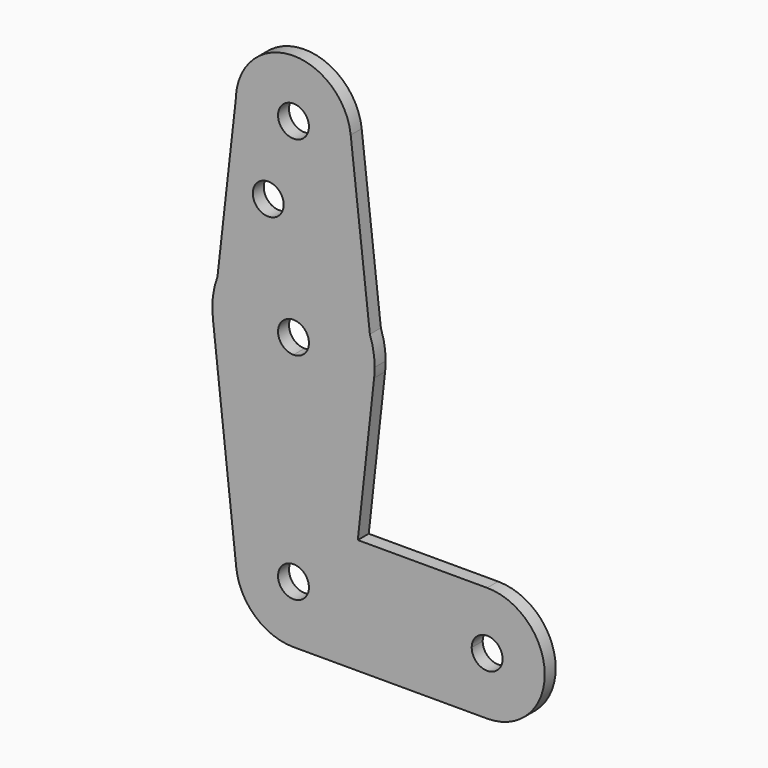
from build123d import *

# Parameters (mm, degrees)
F0_R     = 28.5834260478
F1_DEPTH = 25.4


with BuildPart() as f1:
    # F0 (on Front) → F1 (new body)
    with BuildSketch(Plane.XZ):
        with BuildLine():
            Line((0, -111.1967209602), (0, 0))
            Line((0, 0), (0, 10.4824639664))
            ThreePointArc((0, 10.4824639664), (-28.5834260478, 39.0658900142), (0, 67.6493160619))
            Line((0, 67.6493160619), (0, 189.3285009885))
            ThreePointArc((0, 189.3285009885), (-85.6264774345, 162.5444655606), (-140.7274290539, 91.7407698783))
            Line((-140.7274290539, 91.7407698783), (-148.9322934456, 19.1153455136))
            ThreePointArc((-148.9322934456, 19.1153455136), (-98.9470346949, -74.0196377156), (0, -111.1967209602))
        make_face()
        with BuildLine():
            Line((0, 10.4824639664), (0, 0))
            Line((0, 0), (0, -111.1967209602))
            ThreePointArc((0, -111.1967209602), (99.7081962508, -73.3490905589), (149.1880764193, 21.1279383162))
            Line((149.1880764193, 21.1279383162), (141.38502058, 89.9493668256))
            ThreePointArc((141.38502058, 89.9493668256), (86.4088195027, 161.9982623535), (0, 189.3285009885))
            Line((0, 189.3285009885), (0, 67.6493160619))
            ThreePointArc((0, 67.6493160619), (20.2115343879, 59.2774244021), (28.5834260478, 39.0658900142))
            ThreePointArc((28.5834260478, 39.0658900142), (20.2115343879, 18.8543556262), (0, 10.4824639664))
        make_face()
        with BuildLine():
            ThreePointArc((149.1880764193, 21.1279383162), (99.7081962508, -73.3490905589), (0, -111.1967209602))
            Line((0, -111.1967209602), (0, -252.5826123669))
            Line((0, -252.5826123669), (118.9536322579, -252.5826123669))
            Line((118.9536322579, -252.5826123669), (149.1880764193, 21.1279383162))
        make_face()
        with BuildLine():
            Line((0, -252.5826123669), (0, -111.1967209602))
            ThreePointArc((0, -111.1967209602), (-98.9470346949, -74.0196377156), (-148.9322934456, 19.1153455136))
            Line((-148.9322934456, 19.1153455136), (-105.8942795707, -370.8081200368))
            ThreePointArc((-105.8942795707, -370.8081200368), (-79.3581582284, -288.0390857098), (0, -252.5826123669))
        make_face()
        with BuildLine():
            Line((118.9536322579, -252.5826123669), (0, -252.5826123669))
            ThreePointArc((0, -252.5826123669), (75.3332961831, -283.7866853442), (106.5373691604, -359.1199815273))
            Line((106.5373691604, -359.1199815273), (107.1853678233, -359.1199815273))
            Line((107.1853678233, -359.1199815273), (118.9536322579, -252.5826123669))
        make_face()
        with BuildLine():
            Line((0, -330.5365554796), (0, -252.5826123669))
            ThreePointArc((0, -252.5826123669), (-79.3581582284, -288.0390857098), (-105.8942795707, -370.8081200368))
            ThreePointArc((-105.8942795707, -370.8081200368), (-71.0808958175, -438.4781397557), (0, -465.6573506877))
            ThreePointArc((0, -465.6573506877), (75.3332961831, -434.4532777104), (106.5373691604, -359.1199815273))
            Line((106.5373691604, -359.1199815273), (28.5834260478, -359.1199815273))
            ThreePointArc((28.5834260478, -359.1199815273), (-20.2115343879, -379.3315159153), (0, -330.5365554796))
        make_face()
        with BuildLine():
            ThreePointArc((-140.7274290539, 91.7407698783), (-149.3127649454, 55.9345141776), (-148.9322934456, 19.1153455136))
            Line((-148.9322934456, 19.1153455136), (-140.7274290539, 91.7407698783))
        make_face()
        with BuildLine():
            Line((141.38502058, 89.9493668256), (149.1880764193, 21.1279383162))
            ThreePointArc((149.1880764193, 21.1279383162), (149.993736779, 30.0808366528), (150.2626109743, 39.0658900142))
            ThreePointArc((150.2626109743, 39.0658900142), (148.0265763332, 64.891941898), (141.38502058, 89.9493668256))
        make_face()
        with BuildLine():
            ThreePointArc((-140.7274290539, 91.7407698783), (-85.6264774345, 162.5444655606), (0, 189.3285009885))
            Line((0, 189.3285009885), (0, 284.7426560834))
            ThreePointArc((0, 284.7426560834), (-76.6118719963, 317.2473831402), (-106.4749269686, 394.9270726321))
            Line((-106.4749269686, 394.9270726321), (-140.7274290539, 91.7407698783))
        make_face()
        with Locations((-46.7894114554, 249.1482943296)):
            Circle(F0_R, mode=Mode.SUBTRACT)
        with BuildLine():
            Line((0, 284.7426560834), (0, 189.3285009885))
            ThreePointArc((0, 189.3285009885), (86.4088195027, 161.9982623535), (141.38502058, 89.9493668256))
            Line((141.38502058, 89.9493668256), (105.8807391162, 403.0901950914))
            ThreePointArc((105.8807391162, 403.0901950914), (106.3730849835, 397.1942300687), (106.5373691604, 391.2800252438))
            ThreePointArc((106.5373691604, 391.2800252438), (75.3332961831, 315.9467290607), (0, 284.7426560834))
        make_face()
        with BuildLine():
            Line((107.1853678233, -359.1199815273), (106.5373691604, -359.1199815273))
            ThreePointArc((106.5373691604, -359.1199815273), (75.3332961831, -434.4532777104), (0, -465.6573506877))
            Line((0, -465.6573506877), (358.4000170231, -465.6573506877))
            ThreePointArc((358.4000170231, -465.6573506877), (283.06672084, -434.4532777104), (251.8626478627, -359.1199815273))
            Line((251.8626478627, -359.1199815273), (107.1853678233, -359.1199815273))
        make_face()
        with BuildLine():
            Line((358.4000170231, -252.5826123669), (118.9536322579, -252.5826123669))
            Line((118.9536322579, -252.5826123669), (107.1853678233, -359.1199815273))
            Line((107.1853678233, -359.1199815273), (251.8626478627, -359.1199815273))
            ThreePointArc((251.8626478627, -359.1199815273), (283.06672084, -283.7866853442), (358.4000170231, -252.5826123669))
        make_face()
        with BuildLine():
            ThreePointArc((-106.4749269686, 394.9270726321), (-76.6118719963, 317.2473831402), (0, 284.7426560834))
            ThreePointArc((0, 284.7426560834), (75.3332961831, 315.9467290607), (106.5373691604, 391.2800252438))
            ThreePointArc((106.5373691604, 391.2800252438), (106.3730849835, 397.1942300687), (105.8807391162, 403.0901950914))
            ThreePointArc((105.8807391162, 403.0901950914), (4.2430021395, 497.7328690783), (-104.6048877063, 411.4797404785))
            Line((-104.6048877063, 411.4797404785), (-106.4749269686, 394.9270726321))
        make_face()
        with BuildLine():
            ThreePointArc((28.5834260478, 391.2800252438), (20.2115343879, 371.0684908558), (0, 362.696599196))
            ThreePointArc((0, 362.696599196), (-20.2115343879, 411.4915596317), (28.5834260478, 391.2800252438))
        make_face(mode=Mode.SUBTRACT)
        with BuildLine():
            ThreePointArc((464.9373861835, -359.1199815273), (433.7333132062, -283.7866853442), (358.4000170231, -252.5826123669))
            ThreePointArc((358.4000170231, -252.5826123669), (283.06672084, -283.7866853442), (251.8626478627, -359.1199815273))
            ThreePointArc((251.8626478627, -359.1199815273), (283.06672084, -434.4532777104), (358.4000170231, -465.6573506877))
            ThreePointArc((358.4000170231, -465.6573506877), (433.7333132062, -434.4532777104), (464.9373861835, -359.1199815273))
        make_face()
        with BuildLine():
            ThreePointArc((386.9834430709, -359.1199815273), (358.4000170231, -387.7034075751), (329.8165909753, -359.1199815273))
            ThreePointArc((329.8165909753, -359.1199815273), (358.4000170231, -330.5365554796), (386.9834430709, -359.1199815273))
        make_face(mode=Mode.SUBTRACT)
        with BuildLine():
            ThreePointArc((-104.6048877063, 411.4797404785), (-105.8639208796, 403.2400120168), (-106.4749269686, 394.9270726321))
            Line((-106.4749269686, 394.9270726321), (-104.6048877063, 411.4797404785))
        make_face()
        with BuildLine():
            ThreePointArc((106.5373691604, -359.1199815273), (75.3332961831, -283.7866853442), (0, -252.5826123669))
            Line((0, -252.5826123669), (0, -330.5365554796))
            ThreePointArc((0, -330.5365554796), (20.2115343879, -338.9084471394), (28.5834260478, -359.1199815273))
            Line((28.5834260478, -359.1199815273), (106.5373691604, -359.1199815273))
        make_face()
    extrude(amount=F1_DEPTH)


solid = f1.part
